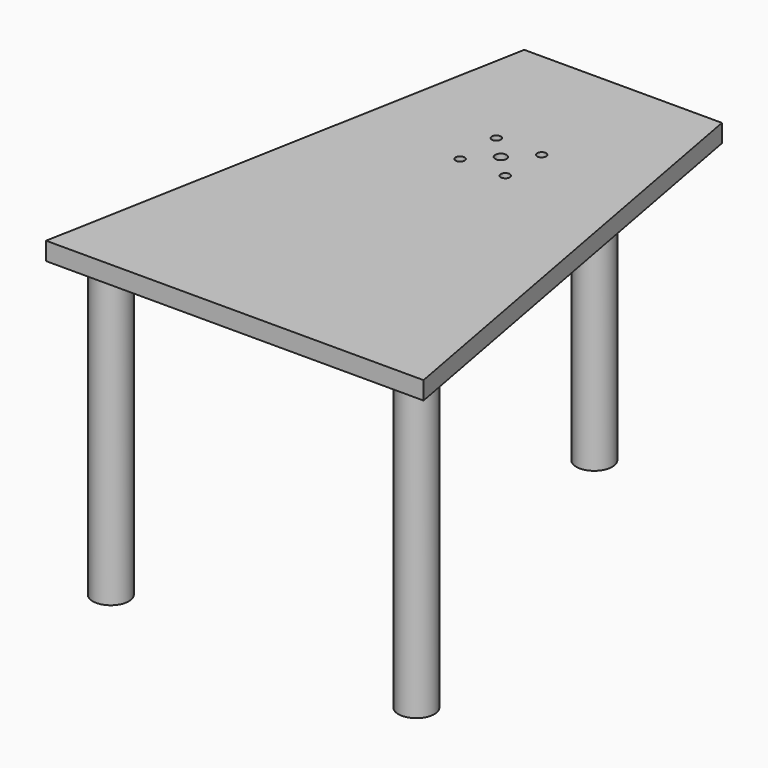
from build123d import *

# Parameters (mm, degrees)
F1_DEPTH = 25.4
F2_R     = 25.4
F3_DEPTH = 419.1
F5_D     = 15.875
F7_D     = 12.7


with BuildPart() as f1:
    # F0 (on Top) → F1 (new body)
    with BuildSketch(Plane.XY):
        Polygon((139.7, 215.9), (0, 215.9), (-139.7, 215.9), (-266.7, -469.9), (0, -469.9), (266.7, -469.9), align=None)
    extrude(amount=F1_DEPTH)

    # F2 (on face) → F3 (join)
    with BuildSketch(Plane(origin=(0, 0, 0), x_dir=(1, 0, 0), z_dir=(0, 0, -1))):
        with Locations((-215.9, 419.1)):
            Circle(F2_R)
        with Locations((215.9, 419.1)):
            Circle(F2_R)
        with Locations((0, -165.1)):
            Circle(F2_R)
    extrude(amount=F3_DEPTH)

    # F5 (through all)
    with Locations(Plane.XY.offset(25.4)):
        with Locations((0, 0)):
            Hole(F5_D / 2)

    # F7 (through all)
    with Locations(Plane.XY.offset(25.4)):
        with Locations((32.004, -32.004), (-32.004, -32.004), (32.004, 32.004), (-32.004, 32.004)):
            Hole(F7_D / 2)


solid = f1.part
